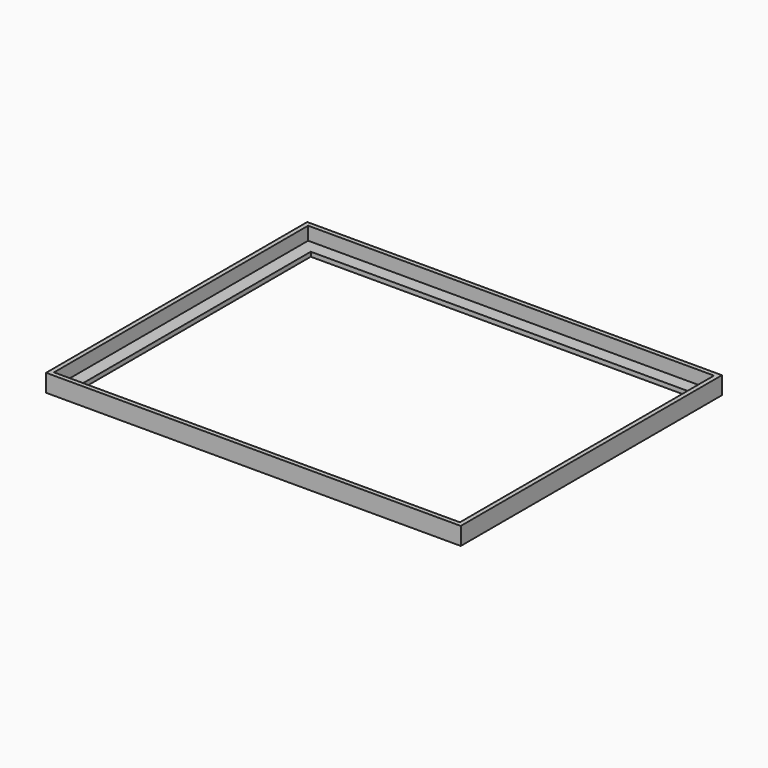
from build123d import *

# Parameters (mm, degrees)
F0_W     = 94
F0_H     = 74
F0_W_2   = 92
F0_H_2   = 72
F1_DEPTH = 4
F0_W_3   = 86
F0_H_3   = 66
F2_DEPTH = 1


with BuildPart() as f1:
    # F0 (on Top) → F1 (new body)
    with BuildSketch(Plane.XY):
        Rectangle(F0_W, F0_H)
        Rectangle(F0_W_2, F0_H_2, mode=Mode.SUBTRACT)
    extrude(amount=F1_DEPTH)

    # F0 (on Top) → F2 (join)
    with BuildSketch(Plane.XY):
        Rectangle(F0_W_2, F0_H_2)
        Rectangle(F0_W_3, F0_H_3, mode=Mode.SUBTRACT)
    extrude(amount=F2_DEPTH)


solid = f1.part
